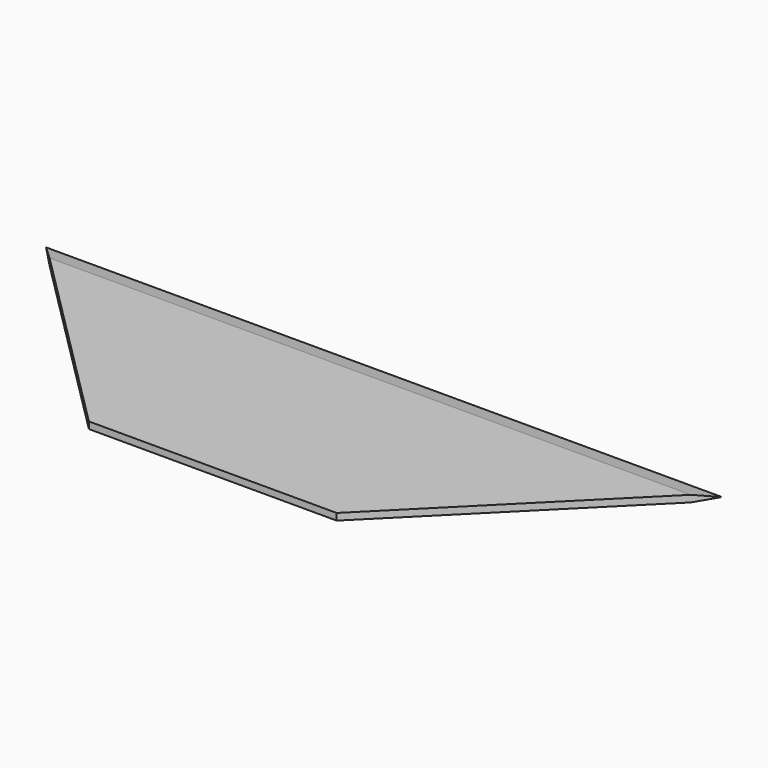
from build123d import *

# Parameters (mm, degrees)
F1_DEPTH = 0.3
F3_DEPTH = 30


with BuildPart() as f1:
    # F0 (on Top) → F1 (new body, symmetric)
    with BuildSketch(Plane.XY):
        Polygon((30, 9.5), (-30, 9.5), (-11, -9.5), (11, -9.5), align=None)
    extrude(amount=F1_DEPTH, both=True)

    # F2 (on Right) → F3 (cut, symmetric)
    with BuildSketch(Plane.YZ):
        Polygon((9.5, 0), (9.5, 0.3), (7.956634, 0.3), align=None)
        Polygon((9.5, -0.3), (9.5, 0), (7.956634, -0.3), align=None)
    extrude(amount=F3_DEPTH, both=True, mode=Mode.SUBTRACT)


solid = f1.part
